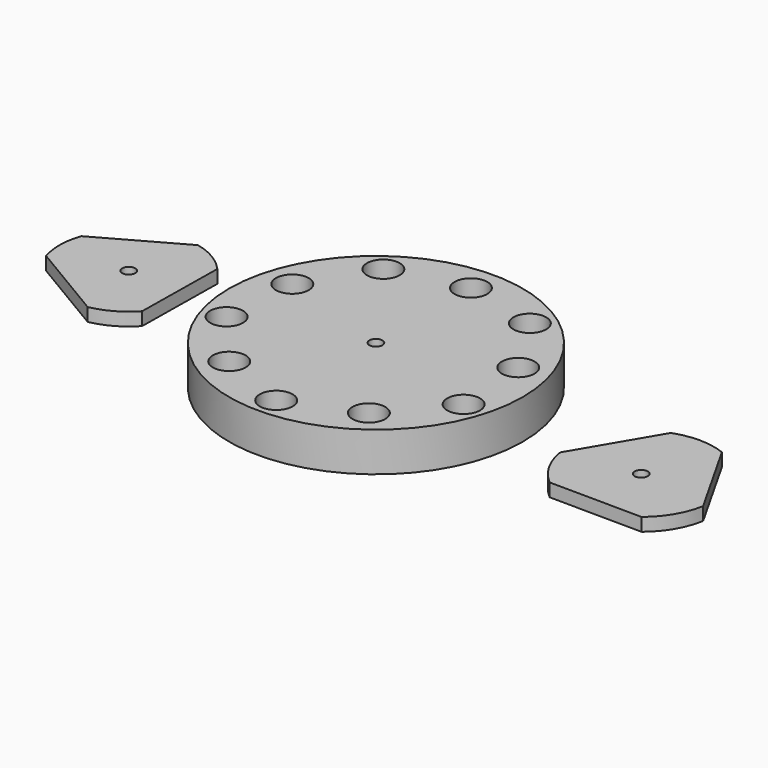
from build123d import *

# Parameters (mm, degrees)
F0_R     = 71.12
F0_R_2   = 7.9375
F0_R_3   = 3.175
F2_DEPTH = 19.05
F1_R     = 3.175
F3_DEPTH = 6.35


with BuildPart() as f2:
    # F0 (on Top) → F2 (new body)
    with BuildSketch(Plane.XY):
        Circle(F0_R)
        with Locations((0, -60.325)):
            Circle(F0_R_2, mode=Mode.SUBTRACT)
        with Locations((-33.800944, -46.523008)):
            Circle(F0_R_2, mode=Mode.SUBTRACT)
        with Locations((-57.372484, -18.64145)):
            Circle(F0_R_2, mode=Mode.SUBTRACT)
        Circle(F0_R_3, mode=Mode.SUBTRACT)
        with Locations((33.800944, -46.523008)):
            Circle(F0_R_2, mode=Mode.SUBTRACT)
        with Locations((57.372484, -18.64145)):
            Circle(F0_R_2, mode=Mode.SUBTRACT)
        with Locations((-54.691076, 17.770208)):
            Circle(F0_R_2, mode=Mode.SUBTRACT)
        with Locations((-35.458145, 48.80395)):
            Circle(F0_R_2, mode=Mode.SUBTRACT)
        with Locations((0, 57.5056)):
            Circle(F0_R_2, mode=Mode.SUBTRACT)
        with Locations((54.691076, 17.770208)):
            Circle(F0_R_2, mode=Mode.SUBTRACT)
        with Locations((35.458145, 48.80395)):
            Circle(F0_R_2, mode=Mode.SUBTRACT)
    extrude(amount=F2_DEPTH)


with BuildPart() as f3:
    # F1 (on Top) → F3 (new body)
    with BuildSketch(Plane.XY):
        with BuildLine():
            Line((-117.731759, 39.461601), (-156.797144, 17.605455))
            ThreePointArc((-156.797144, 17.605455), (-158.600817, 7.200762), (-157.078891, -3.248861))
            Line((-157.078891, -3.248861), (-118.618221, -26.152404))
            ThreePointArc((-118.618221, -26.152404), (-108.705656, -22.512084), (-100.41698, -15.969246))
            Line((-100.41698, -15.969246), (-99.812265, 28.790443))
            ThreePointArc((-99.812265, 28.790443), (-107.921157, 35.554816), (-117.731759, 39.461601))
        make_face()
        with Locations((-125.075877, 6.747831)):
            Circle(F1_R, mode=Mode.SUBTRACT)
        with BuildLine():
            Line((117.892078, 31.081786), (95.192351, -7.490912))
            ThreePointArc((95.192351, -7.490912), (99.3557, -19.452918), (107.472845, -29.175832))
            Line((107.472845, -29.175832), (152.227645, -29.548023))
            ThreePointArc((152.227645, -29.548023), (160.505371, -19.961453), (164.867089, -8.070343))
            Line((164.867089, -8.070343), (142.812016, 30.874546))
            ThreePointArc((142.812016, 30.874546), (130.37094, 33.249983), (117.892078, 31.081786))
        make_face()
        with Locations((130.077337, -2.054796)):
            Circle(F1_R, mode=Mode.SUBTRACT)
    extrude(amount=F3_DEPTH)


solid = Compound([f2.part, f3.part])
